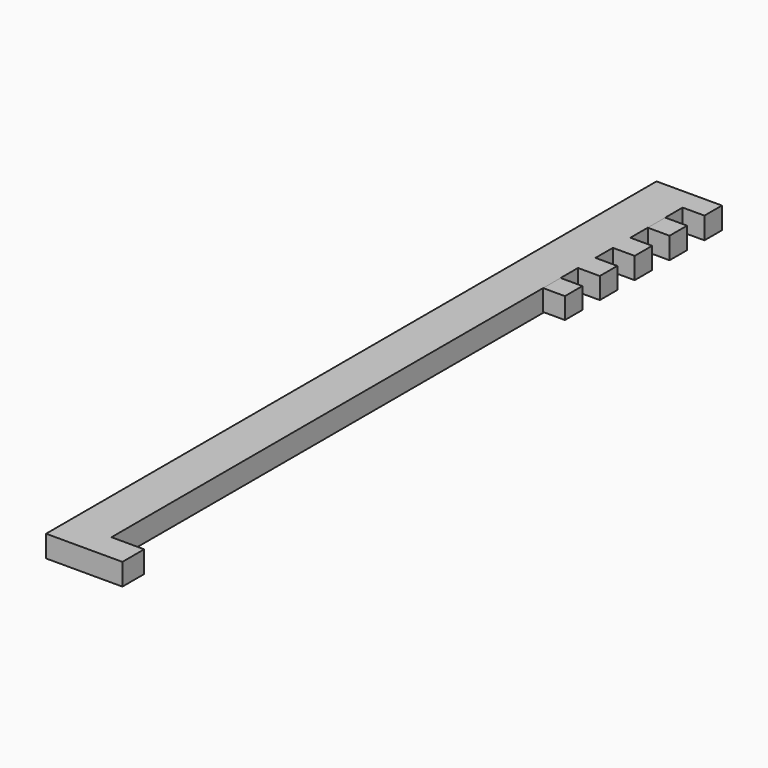
from build123d import *

# Parameters (mm, degrees)
F1_DEPTH = 2
F2_W     = 2.004873
F2_H     = 2
F2_H_2   = 1.982829
F2_H_3   = 1.965658
F2_H_4   = 1.948488
F2_W_2   = 2.004872
F2_H_5   = 1.931317
F3_DEPTH = 2


with BuildPart() as f1:
    # F0 (on Top) → F1 (new body)
    with BuildSketch(Plane.XY):
        Polygon((2, 35), (-2, 35), (-2, -35), (5, -35), (5, -32.5), (2, -32.5), align=None)
    extrude(amount=F1_DEPTH)

    # F2 (on face) → F3 (join)
    with BuildSketch(Plane.YZ.offset(2)):
        with Locations((33.997563, 1)):
            Rectangle(F2_W, F2_H)
        with Locations((29.9976, 1.008585)):
            Rectangle(F2_W, F2_H_2)
        with Locations((25.997637, 1.017171)):
            Rectangle(F2_W, F2_H_3)
        with Locations((21.997675, 1.025756)):
            Rectangle(F2_W, F2_H_4)
        with Locations((17.997711, 1.034342)):
            Rectangle(F2_W_2, F2_H_5)
    extrude(amount=F3_DEPTH)


solid = f1.part
